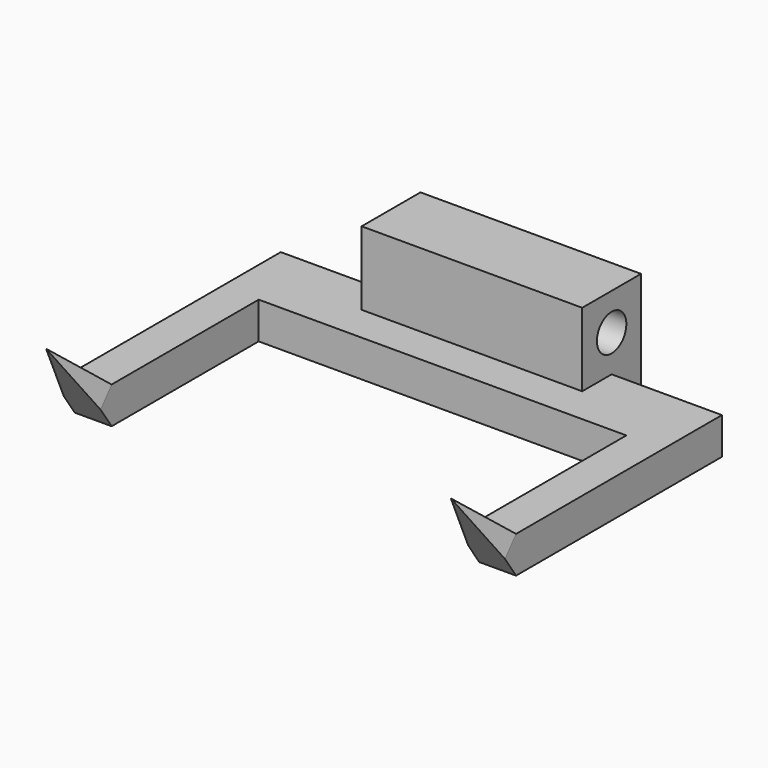
from build123d import *

# Parameters (mm, degrees)
F1_DEPTH  = 38.1
F2_W      = 6.35
F2_H      = 6.35
F3_DEPTH  = 57.15
F2_W_2    = 12.7
F4_DEPTH  = 19.05
F5_W      = 31.75
F5_H      = 6.35
F6_DEPTH  = 6.35
F7_W      = 31.75
F7_H      = 6.35
F8_DEPTH  = 6.35
F10_DEPTH = 25.4
F12_DEPTH = 25.4


with BuildPart() as f1:
    # F0 (on Right) → F1 (new body)
    with BuildSketch(Plane.YZ):
        with BuildLine():
            Line((-12.7, 0), (0, 0))
            Line((0, 0), (0, 12.7))
            Line((0, 12.7), (-3.175, 12.7))
            ThreePointArc((-3.175, 12.7), (-6.35, 9.525), (-9.525, 12.7))
            Line((-9.525, 12.7), (-12.7, 12.7))
            Line((-12.7, 12.7), (-12.7, 0))
        make_face()
        with BuildLine():
            Line((-3.175, 12.7), (0, 12.7))
            Line((0, 12.7), (0, 19.05))
            Line((0, 19.05), (-12.7, 19.05))
            Line((-12.7, 19.05), (-12.7, 12.7))
            Line((-12.7, 12.7), (-9.525, 12.7))
            ThreePointArc((-9.525, 12.7), (-6.35, 15.875), (-3.175, 12.7))
        make_face()
    extrude(amount=F1_DEPTH)

    # F2 (on face) → F3 (join)
    with BuildSketch(Plane(origin=(0, 0, 0), x_dir=(0, -1, 0), z_dir=(-1, 0, 0))):
        with Locations((9.525, 3.175)):
            Rectangle(F2_W, F2_H)
        with Locations((15.875, 3.175)):
            Rectangle(F2_W, F2_H)
    extrude(amount=-F3_DEPTH)

    # F2 (on face) → F4 (join)
    with BuildSketch(Plane(origin=(0, 0, 0), x_dir=(0, -1, 0), z_dir=(-1, 0, 0))):
        with Locations((12.7, 3.175)):
            Rectangle(F2_W_2, F2_H)
    extrude(amount=F4_DEPTH)

    # F5 (on face) → F6 (join)
    with BuildSketch(Plane(origin=(-19.05, 0, 0), x_dir=(0, -1, 0), z_dir=(-1, 0, 0))):
        with Locations((34.925, 3.175)):
            Rectangle(F5_W, F5_H)
        Polygon((60.985425, 14.896587), (50.8, 6.35), (50.8, 0), align=None)
    extrude(amount=-F6_DEPTH)

    # F7 (on face) → F8 (join)
    with BuildSketch(Plane.YZ.offset(57.15)):
        Polygon((-50.8, 0), (-50.8, 6.35), (-60.910088, 14.833371), align=None)
        with Locations((-34.925, 3.175)):
            Rectangle(F7_W, F7_H)
    extrude(amount=-F8_DEPTH)

    # F9 (on face) → F10 (cut)
    with BuildSketch(Plane(origin=(0, -17.862572, -21.287784), x_dir=(1, 0, 0), z_dir=(0, 0.642788, 0.766044))):
        Polygon((-15.875, -56.292887), (-19.05, -42.996759), (-19.05, -56.292887), align=None)
        Polygon((-12.7, -42.996759), (-15.875, -56.292887), (-12.7, -56.292887), align=None)
    extrude(amount=-F10_DEPTH, mode=Mode.SUBTRACT)

    # F11 (on face) → F12 (cut)
    with BuildSketch(Plane(origin=(0, -17.862572, -21.287784), x_dir=(1, 0, 0), z_dir=(0, 0.642788, 0.766044))):
        Polygon((57.15, -42.996759), (53.975, -56.194541), (57.15, -56.194541), align=None)
        Polygon((50.8, -56.194541), (53.975, -56.194541), (50.8, -42.996759), align=None)
    extrude(amount=-F12_DEPTH, mode=Mode.SUBTRACT)


solid = f1.part
